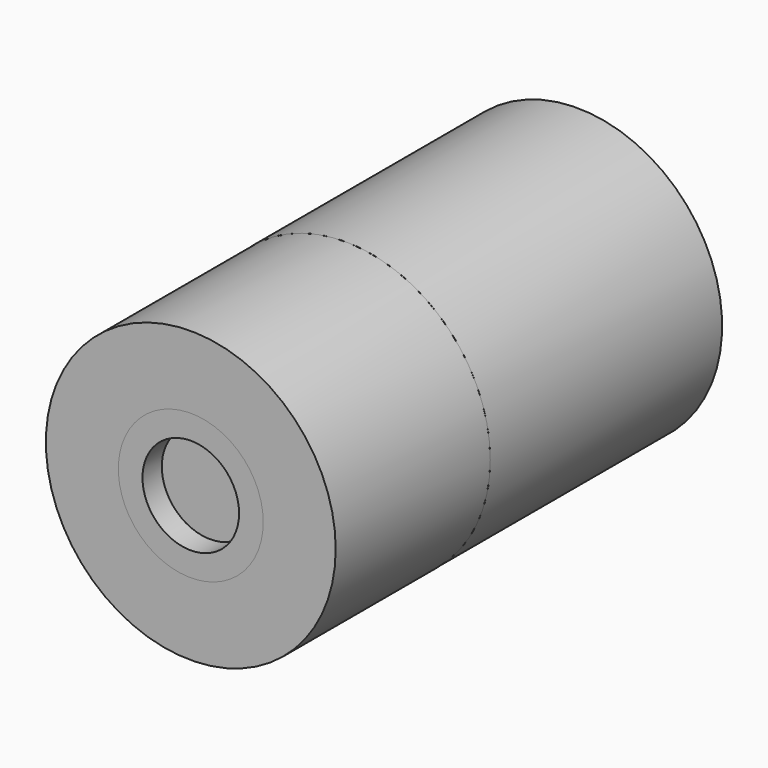
from build123d import *

# Parameters (mm, degrees)
F0_R      = 150
F3_DEPTH  = 200
F1_R      = 75
F4_DEPTH  = 50
F5_DEPTH  = 50
F2_R      = 50
F6_DEPTH  = 25
F7_R      = 55
F8_DEPTH  = 10
F9_DEPTH  = 10
F10_R     = 150
F11_DEPTH = 300


with BuildPart() as f3:
    # F0 (on Front) → F3 (new body)
    with BuildSketch(Plane.XZ):
        Circle(F0_R)
    extrude(amount=-F3_DEPTH)

    # F1 (on Front) → F4 (cut)
    with BuildSketch(Plane.XZ):
        Circle(F1_R)
    extrude(amount=-F4_DEPTH, mode=Mode.SUBTRACT)


with BuildPart() as f5:
    # F1 (on Front) → F5 (new body, through all)
    with BuildSketch(Plane.XZ):
        Circle(F1_R)
    extrude(amount=-F5_DEPTH)

    # F2 (on Front) → F6 (cut)
    with BuildSketch(Plane.XZ):
        Circle(F2_R)
    extrude(amount=-F6_DEPTH, mode=Mode.SUBTRACT)

    # F7 (on face) → F8 (cut)
    with BuildSketch(Plane.XZ.offset(-25)):
        Circle(F7_R)
    extrude(amount=-F8_DEPTH, mode=Mode.SUBTRACT)


with BuildPart() as f9:
    # F7 (on face) → F9 (new body, through all)
    with BuildSketch(Plane.XZ.offset(-25)):
        Circle(F7_R)
    extrude(amount=-F9_DEPTH)


with BuildPart() as f11:
    # F10 (on face) → F11 (new body)
    with BuildSketch(Plane(origin=(0, 200, 0), x_dir=(-1, 0, 0), z_dir=(0, 1, 0))):
        Circle(F10_R)
    extrude(amount=F11_DEPTH)


solid = Compound([f3.part, f5.part, f9.part, f11.part])
